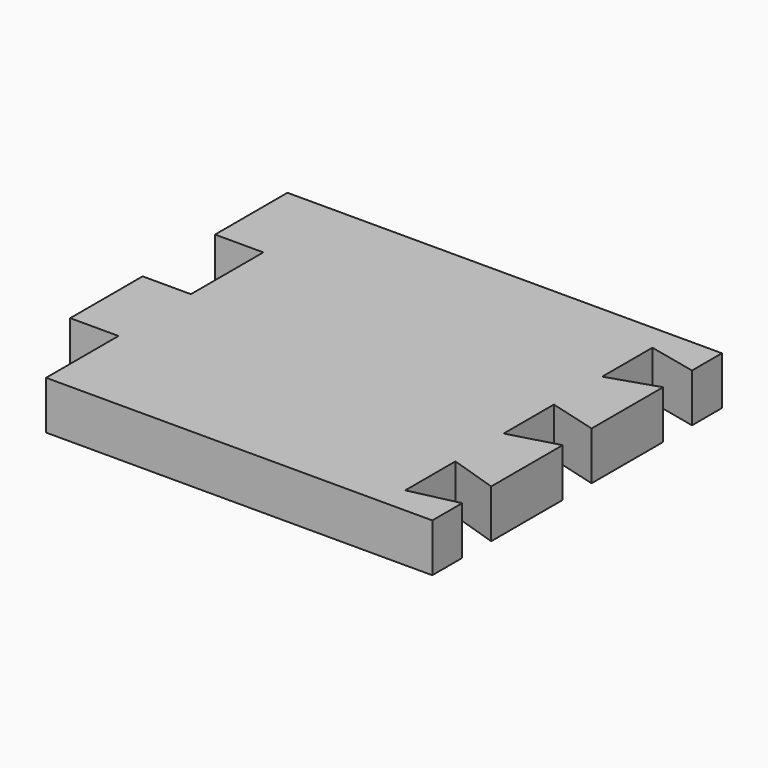
from build123d import *

# Parameters (mm, degrees)
F1_DEPTH = 20
F3_DEPTH = 20
F4_W     = 157
F4_H     = 4
F5_DEPTH = 3


with BuildPart() as f1:
    # F0 (on Top) → F1 (new body)
    with BuildSketch(Plane.XY):
        Polygon((0, 187.499995), (-180, 187.499995), (-180, 149.999995), (-160, 149.999995), (-160, 112.499995), (-180, 112.499995), (-180, 74.999995), (-160, 74.999995), (-160, 37.499995), (0, 37.499995), align=None)
    extrude(amount=F1_DEPTH)

    # F2 (on face) → F3 (cut)
    with BuildSketch(Plane.XY.offset(20)):
        Polygon((0, 171.999995), (-20, 176.499995), (-20, 150.499995), (0, 156.999995), align=None)
        Polygon((0, 119.999995), (-20, 125.499995), (-20, 99.499995), (0, 104.999995), align=None)
        Polygon((0, 67.999995), (-20, 74.499995), (-20, 48.499995), (0, 52.999995), align=None)
    extrude(amount=-F3_DEPTH, mode=Mode.SUBTRACT)

    # F4 (on face) → F5 (cut)
    with BuildSketch(Plane(origin=(0, 0, 0), x_dir=(1, 0, 0), z_dir=(0, 0, -1))):
        with Locations((-81.5, -45.499995)):
            Rectangle(F4_W, F4_H)
    extrude(amount=-F5_DEPTH, mode=Mode.SUBTRACT)


solid = f1.part
